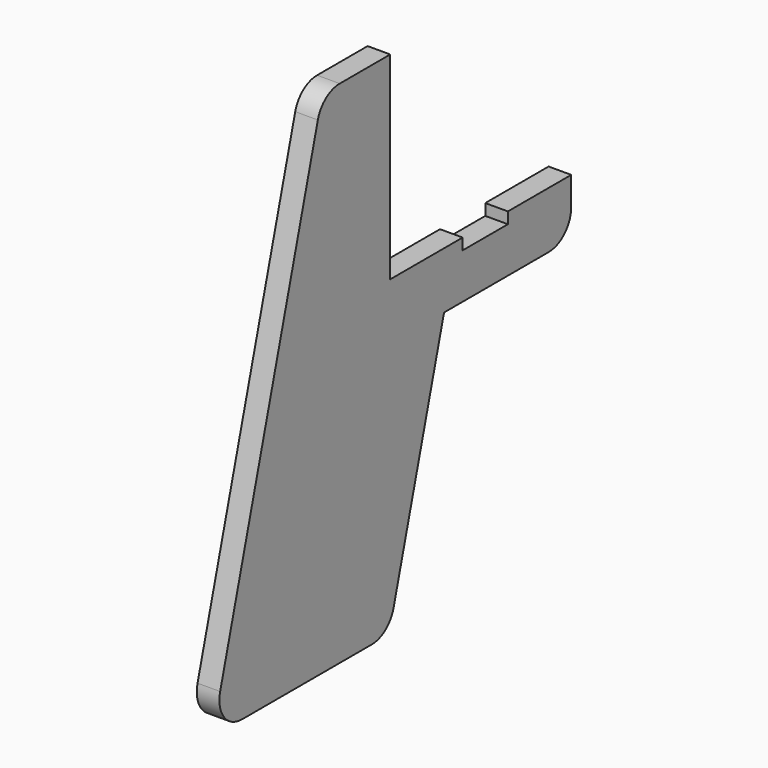
from build123d import *

# Parameters (mm, degrees)
F1_DEPTH = 4


with BuildPart() as f1:
    # F0 (on Right) → F1 (new body)
    with BuildSketch(Plane.YZ):
        with BuildLine():
            Line((16, 0), (0, 0))
            Line((0, 0), (0, 35))
            Line((0, 35), (-11.168313, 35))
            ThreePointArc((-11.168313, 35), (-14.209648, 33.968663), (-15.996325, 31.300113))
            Line((-15.996325, 31.300113), (-37.58655, -48.875883))
            ThreePointArc((-37.58655, -48.875883), (-36.7272, -53.217331), (-32.758538, -55.175996))
            Line((-32.758538, -55.175996), (-4.104376, -55.175996))
            ThreePointArc((-4.104376, -55.175996), (-1.063041, -54.144659), (0.723636, -51.476109))
            Line((0.723636, -51.476109), (11.892547, -10))
            Line((11.892547, -10), (35, -10))
            ThreePointArc((35, -10), (38.535534, -8.535534), (40, -5))
            Line((40, -5), (40, 0))
            Line((40, 0), (26, 0))
            Line((26, 0), (26, -2))
            Line((26, -2), (16, -2))
            Line((16, -2), (16, 0))
        make_face()
    extrude(amount=F1_DEPTH)


solid = f1.part
